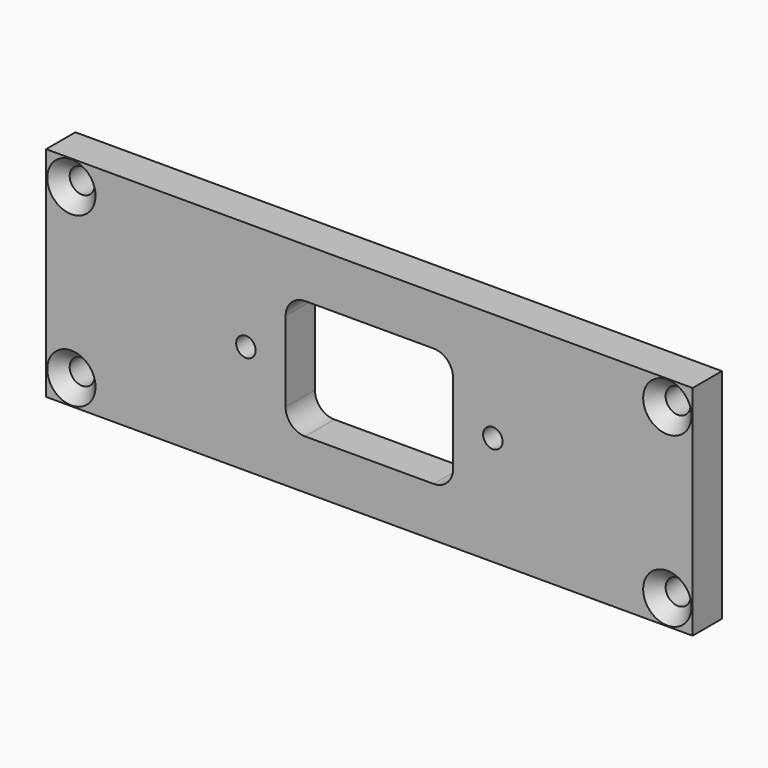
from build123d import *

# Parameters (mm, degrees)
F0_W           = 105.41
F0_H           = 35.56
F0_R           = 1.5875
F1_DEPTH       = 5.969
F3_D           = 4.064
F3_DEPTH       = 50.8
F3_CSINK_D     = 7.874
F3_CSINK_ANGLE = 82


with BuildPart() as f1:
    # F0 (on Front) → F1 (new body)
    with BuildSketch(Plane.XZ):
        Rectangle(F0_W, F0_H)
        with Locations((-20.1295, 0)):
            Circle(F0_R, mode=Mode.SUBTRACT)
        with BuildLine():
            Line((-10.4775, 9.7155), (10.4775, 9.7155))
            ThreePointArc((10.4775, 9.7155), (12.722564, 8.785564), (13.6525, 6.5405))
            Line((13.6525, 6.5405), (13.6525, -6.5405))
            ThreePointArc((13.6525, -6.5405), (12.722564, -8.785564), (10.4775, -9.7155))
            Line((10.4775, -9.7155), (-10.4775, -9.7155))
            ThreePointArc((-10.4775, -9.7155), (-12.722564, -8.785564), (-13.6525, -6.5405))
            Line((-13.6525, -6.5405), (-13.6525, 6.5405))
            ThreePointArc((-13.6525, 6.5405), (-12.722564, 8.785564), (-10.4775, 9.7155))
        make_face(mode=Mode.SUBTRACT)
        with Locations((20.1295, 0)):
            Circle(F0_R, mode=Mode.SUBTRACT)
    extrude(amount=F1_DEPTH)

    # F3
    with Locations(Plane.XZ.offset(5.969)):
        with Locations((-48.5775, 13.716), (-48.5775, -13.716), (48.5775, -13.716), (48.5775, 13.716)):
            CounterSinkHole(F3_D / 2, F3_CSINK_D / 2, depth=F3_DEPTH, counter_sink_angle=F3_CSINK_ANGLE)


solid = f1.part
